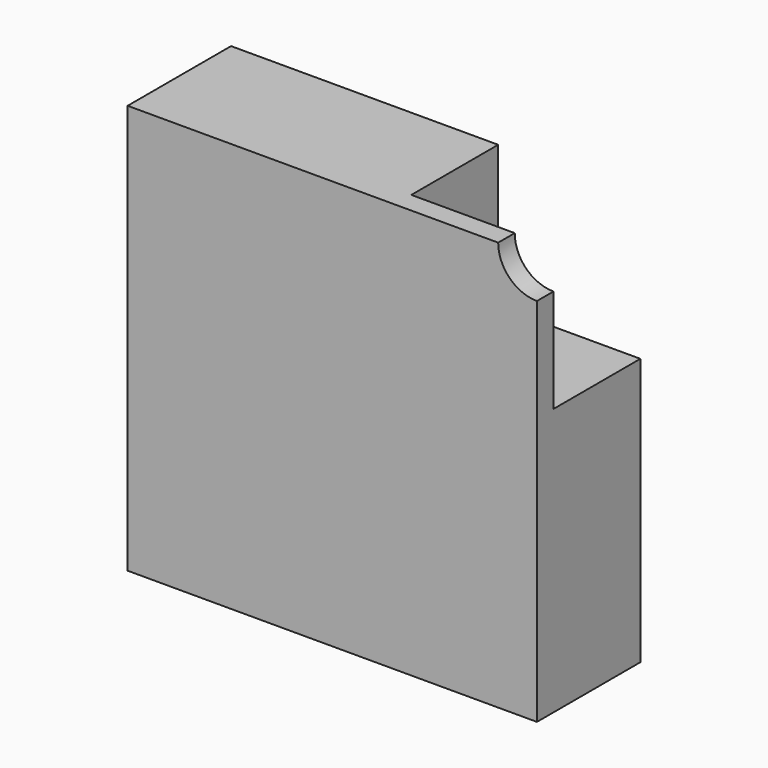
from build123d import *

# Parameters (mm, degrees)
F0_W     = 95
F0_H     = 95
F1_DEPTH = 30
F2_R     = 9
F3_DEPTH = 40
F4_W     = 66
F4_H     = 66
F5_DEPTH = 25.2
F6_R     = 11


with BuildPart() as f1:
    # F0 (on Front) → F1 (new body)
    with BuildSketch(Plane.XZ):
        Rectangle(F0_W, F0_H)
    extrude(amount=F1_DEPTH)

    # F2 (on face) → F3 (cut)
    with BuildSketch(Plane.XZ.offset(30)):
        with Locations((47.5, 47.5)):
            Circle(F2_R)
    extrude(amount=-F3_DEPTH, mode=Mode.SUBTRACT)

    # F4 (on face) → F5 (cut)
    with BuildSketch(Plane(origin=(0, 0, 0), x_dir=(-1, 0, 0), z_dir=(0, 1, 0))):
        with Locations((-47.5, 47.5)):
            Rectangle(F4_W, F4_H)
    extrude(amount=-F5_DEPTH, mode=Mode.SUBTRACT)

    # F6
    f6_edges = [f1.edges().sort_by_distance(p)[0] for p in [
        (14.5, -12.6, 14.5),
    ]]
    fillet(f6_edges, radius=F6_R)


solid = f1.part
